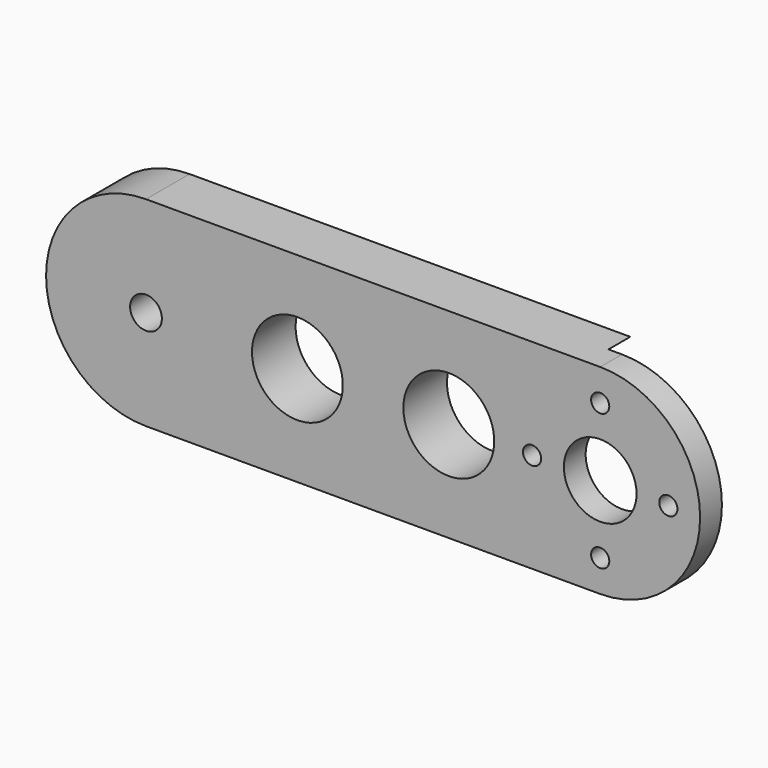
from build123d import *

# Parameters (mm, degrees)
CYLINDER020_R             = 11.1
CYLINDER020_DEPTH         = 26
CYLINDER019_R             = 4
CYLINDER019_DEPTH         = 43
CYLINDER021_R             = 1
CYLINDER021_DEPTH         = 31
CYLINDER024_R             = 1
CYLINDER024_DEPTH         = 31
CYLINDER023_R             = 1
CYLINDER023_DEPTH         = 31
CYLINDER022_R             = 1
CYLINDER022_DEPTH         = 31
FUSION002_ROLL_ANGLE      = -90
FUSION003_PLACEMENT_ANGLE = 180
SKETCH_R                  = 5
SKETCH_R_2                = 1.75
PAD_DEPTH                 = 6
CUT_PITCH_ANGLE           = 90


with BuildPart() as cylinder141:
    # Cylinder020 → Cylinder020 (new body)
    with BuildSketch(Plane(origin=(-3, 71, 73), x_dir=(0, 0, 1), z_dir=(0, -1, 0))):
        Circle(CYLINDER020_R)
    extrude(amount=CYLINDER020_DEPTH)


with BuildPart() as fusion001:
    # Cylinder019 → Cylinder019 (new body)
    with BuildSketch(Plane(origin=(-3, 66, 73), x_dir=(0, 0, 1), z_dir=(0, -1, 0))):
        Circle(CYLINDER019_R)
    extrude(amount=CYLINDER019_DEPTH)

    # Fusion001: union Cylinder141
    add(cylinder141.part)


with BuildPart() as cylinder096:
    # Cylinder021 → Cylinder021 (new body)
    with BuildSketch(Plane(origin=(-7.5, -11, 132), x_dir=(1, 0, 0), z_dir=(0, 0, 1))):
        Circle(CYLINDER021_R)
    extrude(amount=CYLINDER021_DEPTH)


with BuildPart() as cylinder146:
    # Cylinder024 → Cylinder024 (new body)
    with BuildSketch(Plane(origin=(0, -3.5, 132), x_dir=(1, 0, 0), z_dir=(0, 0, 1))):
        Circle(CYLINDER024_R)
    extrude(amount=CYLINDER024_DEPTH)


with BuildPart() as cylinder145:
    # Cylinder023 → Cylinder023 (new body)
    with BuildSketch(Plane(origin=(7.5, -11, 132), x_dir=(1, 0, 0), z_dir=(0, 0, 1))):
        Circle(CYLINDER023_R)
    extrude(amount=CYLINDER023_DEPTH)


with BuildPart() as fusion003:
    # Cylinder022 → Cylinder022 (new body)
    with BuildSketch(Plane(origin=(0, -18.5, 132), x_dir=(1, 0, 0), z_dir=(0, 0, 1))):
        Circle(CYLINDER022_R)
    extrude(amount=CYLINDER022_DEPTH)

    # Fusion002: union Cylinder096, Cylinder146, Cylinder145
    add(cylinder096.part)
    add(cylinder146.part)
    add(cylinder145.part)


with BuildPart() as fusion003_1:
    # Fusion002 roll: moved
    add(fusion003.part.rotate(Axis((0, 0, 0), (1, 0, 0)), FUSION002_ROLL_ANGLE))


with BuildPart() as fusion003_2:
    # Fusion002 placement: moved
    add(fusion003_1.part.moved(Location((-3, -97.5, 62))))

    # Fusion003: union Fusion001
    add(fusion001.part)


with BuildPart() as fusion003_3:
    # Fusion003 placement: moved
    add(fusion003_2.part.moved(Location((-0.5, 88, -87))).rotate(Axis((-0.5, 88, -87), (0, 0, 1)), FUSION003_PLACEMENT_ANGLE))


with BuildPart() as cut:
    # Sketch → Pad (new body)
    with BuildSketch(Plane(origin=(-11.5, 40, -16.5), x_dir=(0, 0, -1), z_dir=(0, 1, 0))):
        with BuildLine():
            Line((-2.5, -3), (47.5, -3))
            ThreePointArc((47.5, -25), (58.5, -14), (47.5, -3))
            Line((-2.5, -25), (47.5, -25))
            ThreePointArc((-2.5, -3), (-13.5, -14), (-2.5, -25))
        make_face()
        with Locations((14.166667, -14)):
            Circle(SKETCH_R, mode=Mode.SUBTRACT)
        with Locations((30.833333, -14)):
            Circle(SKETCH_R, mode=Mode.SUBTRACT)
        with Locations((47.5, -14)):
            Circle(SKETCH_R_2, mode=Mode.SUBTRACT)
    extrude(amount=PAD_DEPTH)

    # Cut: cut Fusion003
    add(fusion003_3.part, mode=Mode.SUBTRACT)


with BuildPart() as cut_1:
    # Cut pitch: moved
    add(cut.part.rotate(Axis((0, 0, 0), (0, 1, 0)), CUT_PITCH_ANGLE))


with BuildPart() as cut_2:
    # Cut placement: moved
    add(cut_1.part.moved(Location((16.5, -87, -15))))


with BuildPart() as part_mirroring029:
    # Part__Mirroring029: instance of Cut
    add(cut_2.part.mirror(Plane(origin=(0, 0, 0), x_dir=(1, 0, 0), z_dir=(0, 1, 0))))


solid = part_mirroring029.part
